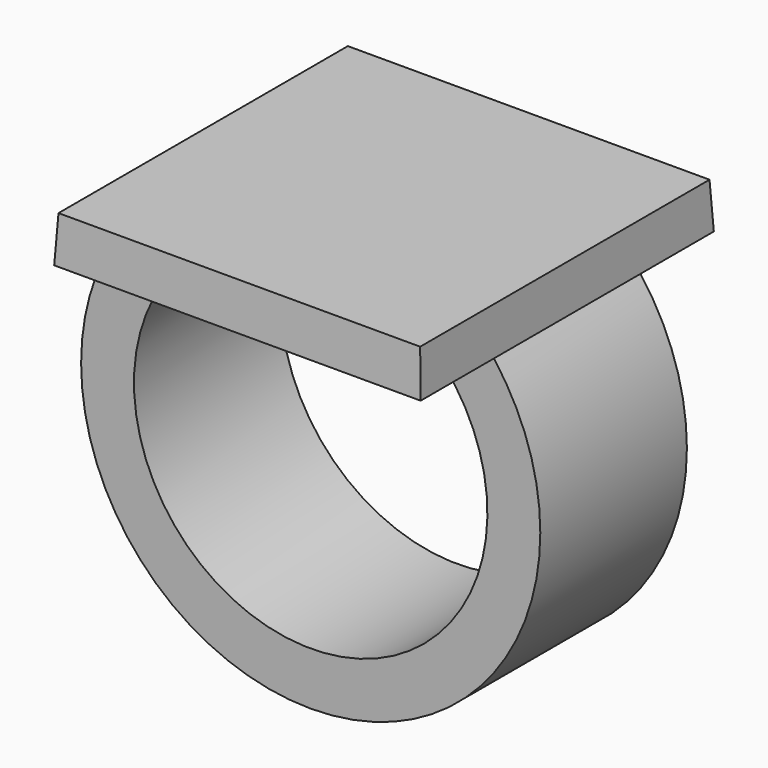
from build123d import *

# Parameters (mm, degrees)
F0_W          = 25.4
F0_H          = 25.4
F1_DEPTH      = 3.175
F1_TAPER      = 3
F3_W          = 5.08
F3_H          = 12.7
F6_DEPTH      = 6.35
F6_DEPTH_BACK = 6.35


with BuildPart() as f1:
    # F0 (on Top) → F1 (new body)
    with BuildSketch(Plane.XY):
        Rectangle(F0_W, F0_H)
    extrude(amount=F1_DEPTH, taper=F1_TAPER)

    # F4: sweep along a path in F2
    with BuildLine(Plane.XZ) as f4_path:
        ThreePointArc((-10.16, 0), (0, -23.5582897328), (10.16, 0))
    # F3 (on face) → F4 (sweep)
    with BuildSketch(Plane(origin=(0, 0, 0), x_dir=(1, 0, 0), z_dir=(0, 0, -1))):
        with Locations((-10.16, 0)):
            Rectangle(F3_W, F3_H)
    sweep(path=f4_path.line)

    # F5 (on Front) → F6 (join, two sides)
    with BuildSketch(Plane.XZ) as f6_sk:
        with BuildLine():
            Line((10.0130578512, -2.535746045), (10.16, 0))
            Line((10.16, 0), (7.62, 0))
            ThreePointArc((7.62, 0), (8.9072265211, -1.1822790439), (10.0130578512, -2.535746045))
        make_face()
    extrude(amount=F6_DEPTH)
    extrude(f6_sk.sketch, amount=-F6_DEPTH_BACK)


solid = f1.part
